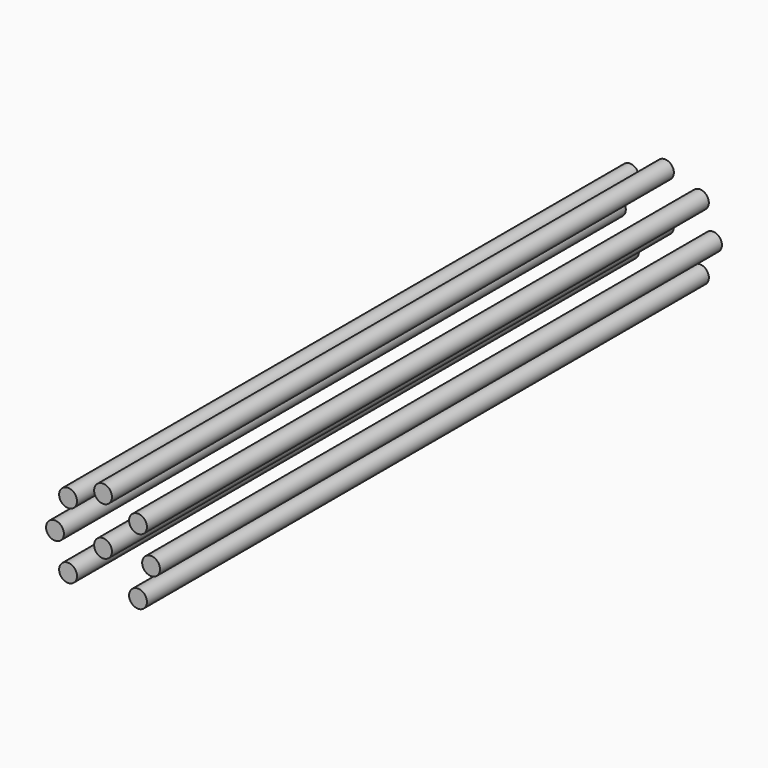
from build123d import *

# Parameters (mm, degrees)
F0_R     = 0.32258
F1_DEPTH = 25.4


with BuildPart() as f1:
    # F0 (on Front) → F1 (new body)
    with BuildSketch(Plane.XZ):
        with Locations((1.737832, 0)):
            Circle(F0_R)
        with Locations((1.264694, -1.191893)):
            Circle(F0_R)
        with Locations((1.264694, 1.191893)):
            Circle(F0_R)
        Circle(F0_R)
        with Locations((-1.264694, -1.191893)):
            Circle(F0_R)
        with Locations((-1.737832, 0)):
            Circle(F0_R)
        with Locations((-1.264694, 1.191893)):
            Circle(F0_R)
        with Locations((0, 1.737832)):
            Circle(F0_R)
    extrude(amount=F1_DEPTH)


solid = f1.part
